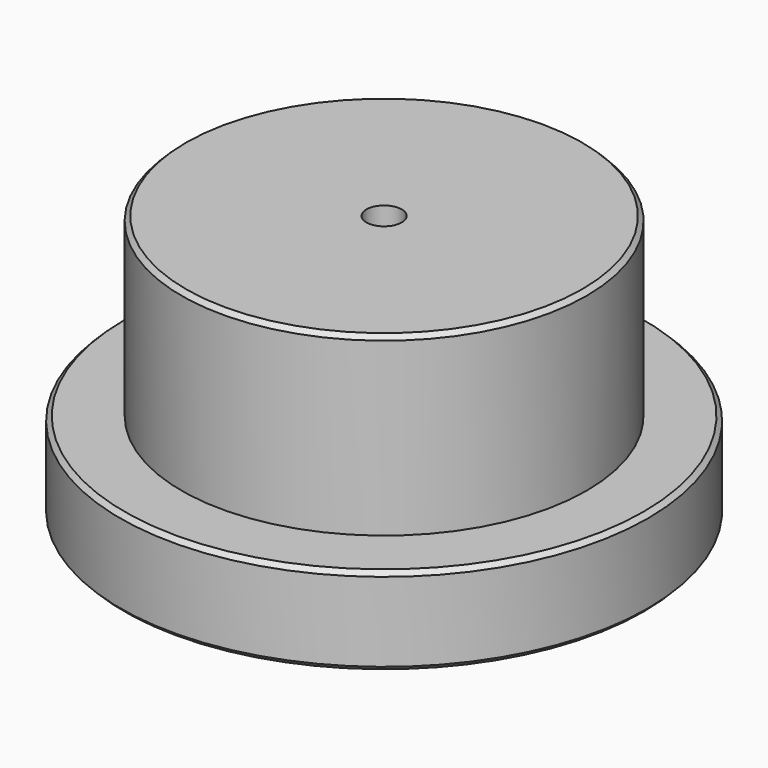
from build123d import *

# Parameters (mm, degrees)
F0_R     = 38.1
F1_DEPTH = 12.7
F2_R     = 29.2481
F3_DEPTH = 25.4
F4_SIZE  = 0.635
F6_D     = 5.1054


with BuildPart() as f1:
    # F0 (on Top) → F1 (new body)
    with BuildSketch(Plane.XY):
        Circle(F0_R)
    extrude(amount=F1_DEPTH)

    # F2 (on face) → F3 (join)
    with BuildSketch(Plane.XY.offset(12.7)):
        Circle(F2_R)
    extrude(amount=F3_DEPTH)

    # F4
    f4_edges = [f1.edges().sort_by_distance(p)[0] for p in [
        (-29.2481, 0, 38.1),
        (-38.1, 0, 12.7),
        (-38.1, 0, 0),
    ]]
    chamfer(f4_edges, length=F4_SIZE)

    # F6 (through all)
    with Locations(Plane.XY.offset(38.1)):
        with Locations((0, 0)):
            Hole(F6_D / 2)


solid = f1.part
